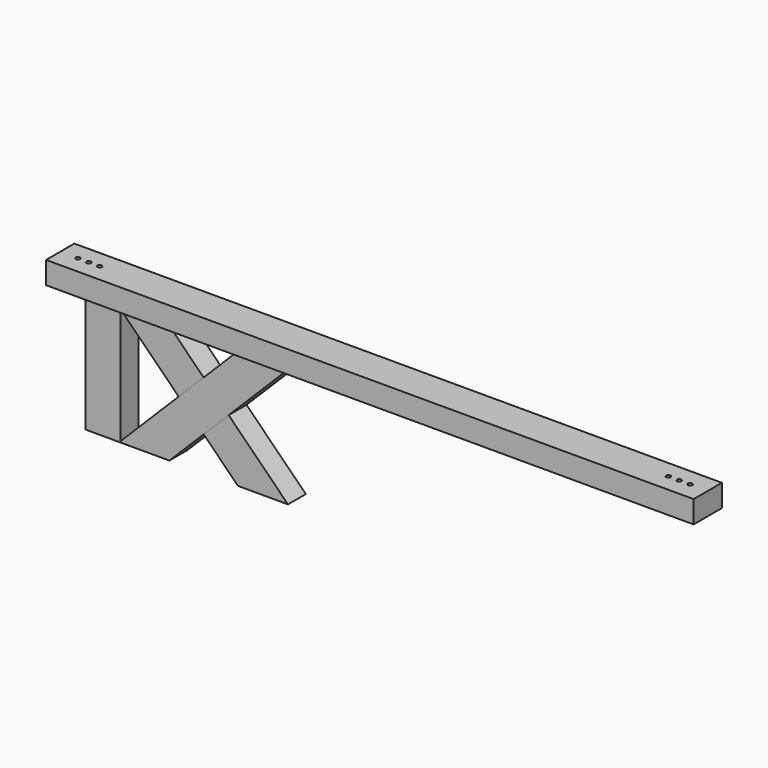
from build123d import *

# Parameters (mm, degrees)
SKETCH_W                 = 1190
SKETCH_H                 = 65
PAD_DEPTH                = 41
SKETCH004_R              = 4
POCKET001_DEPTH          = 41.001
SKETCH005_R              = 4
POCKET002_DEPTH          = 20
SKETCH001_W              = 65
SKETCH001_H              = 41
PAD001_DEPTH             = 218
BODY006_PLACEMENT_ANGLE  = 180
PAD002_DEPTH             = 20.5
POCKET_DEPTH             = 20.5
BODY009_PLACEMENT_ANGLE  = 180
CLONE002_PLACEMENT_ANGLE = 180
BODY010_PLACEMENT_ANGLE  = 180


with BuildPart() as base002:
    # Sketch → Pad (new body)
    with BuildSketch(Plane.XY):
        Rectangle(SKETCH_W, SKETCH_H)
    extrude(amount=PAD_DEPTH)

    # Sketch004 (on Face6 of Pad) → Pocket001 (cut, through all)
    with BuildSketch(Plane.XY.offset(41)):
        with Locations((-542.5, 0)):
            Circle(SKETCH004_R)
        with Locations((542.5, 0)):
            Circle(SKETCH004_R)
    extrude(amount=-POCKET001_DEPTH, mode=Mode.SUBTRACT)

    # Sketch005 (on Face5 of Pocket001) → Pocket002 (cut)
    with BuildSketch(Plane.XY.offset(41)):
        with Locations((522.5, 0)):
            Circle(SKETCH005_R)
        with Locations((-522.5, 0)):
            Circle(SKETCH005_R)
        with Locations((-562.5, 0)):
            Circle(SKETCH005_R)
        with Locations((562.5, 0)):
            Circle(SKETCH005_R)
    extrude(amount=-POCKET002_DEPTH, mode=Mode.SUBTRACT)


with BuildPart() as base002_1:
    # Body002 placement: moved
    add(base002.part.moved(Location((0, 0, 259))))


with BuildPart() as column002:
    # Sketch001 → Pad001 (new body)
    with BuildSketch(Plane.XY):
        Rectangle(SKETCH001_W, SKETCH001_H)
    extrude(amount=PAD001_DEPTH)


with BuildPart() as column002_1:
    # Body001 placement: moved
    add(column002.part.moved(Location((500, 0, 41))))


with BuildPart() as column002_2:
    # Body006 placement: moved
    add(column002_1.part.rotate(Axis((0, 0, 0), (0, 0, 1)), BODY006_PLACEMENT_ANGLE))


with BuildPart() as diagonal001:
    # Sketch002 → Pad002 (new body, symmetric)
    with BuildSketch(Plane.XZ):
        Polygon((-154.961941, 259), (-63.038059, 259), (154.961941, 41), (63.038059, 41), align=None)
    extrude(amount=PAD002_DEPTH, both=True)

    # Sketch003 (on Face6 of Pad002) → Pocket (cut)
    with BuildSketch(Plane.XZ.offset(20.5)):
        Polygon((-45.961941, 150), (0, 195.961941), (45.961941, 150), (0, 104.038059), align=None)
    extrude(amount=-POCKET_DEPTH, mode=Mode.SUBTRACT)


with BuildPart() as body009:
    # Body007 base: copy of Diagonal001
    add(diagonal001.part)


with BuildPart() as body009_1:
    # Body007 placement: moved
    add(body009.part.moved(Location((315, 0, 0))))


with BuildPart() as body009_2:
    # Body009 placement: moved
    add(body009_1.part.rotate(Axis((0, 0, 0), (0, 0, 1)), BODY009_PLACEMENT_ANGLE))


with BuildPart() as body010:
    # Body005 base: copy of Diagonal001
    add(diagonal001.part)


with BuildPart() as body010_1:
    # Clone002 placement: moved
    add(body010.part.rotate(Axis((0, 0, 0), (0, 0, 1)), CLONE002_PLACEMENT_ANGLE))


with BuildPart() as body010_2:
    # Body008 placement: moved
    add(body010_1.part.moved(Location((315, 0, 0))))


with BuildPart() as body010_3:
    # Body010 placement: moved
    add(body010_2.part.rotate(Axis((0, 0, 0), (0, 0, 1)), BODY010_PLACEMENT_ANGLE))


solid = Compound([base002_1.part, column002_2.part, body009_2.part, body010_3.part])
